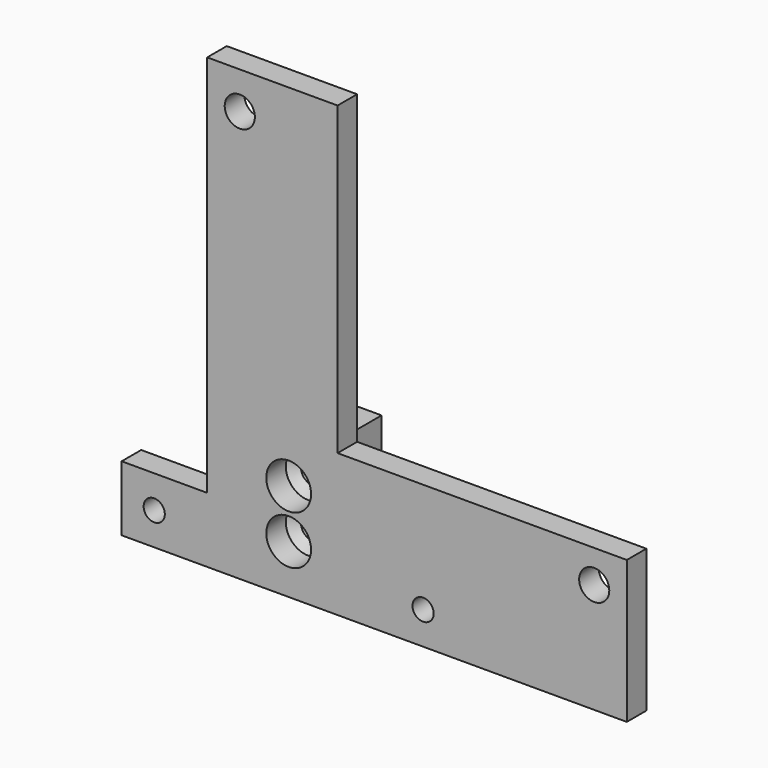
from build123d import *

# Parameters (mm, degrees)
F0_R     = 1.3
F0_R_2   = 1.85
F0_W     = 10
F0_H     = 18
F0_R_3   = 1.5
F1_DEPTH = 3
F2_DEPTH = 8
F3_D     = 5.5
F3_DEPTH = 3
F3_TIP   = 1.6523667023


with BuildPart() as f1:
    # F0 (on Front) → F1 (new body)
    with BuildSketch(Plane.XZ):
        Polygon((0, 3), (-10.5, 3), (-10.5, -5), (5, -5), (5, 13), (15, 13), (15, -5), (51.5, -5), (51.5, 12.5), (16, 12.5), (16, 50.0543485135), (0, 50.0543485135), align=None)
        with Locations((-6.5, -1)):
            Circle(F0_R, mode=Mode.SUBTRACT)
        with Locations((26.5, -1)):
            Circle(F0_R, mode=Mode.SUBTRACT)
        with Locations((47.5, 8.5)):
            Circle(F0_R_2, mode=Mode.SUBTRACT)
        with Locations((4, 45.5)):
            Circle(F0_R_2, mode=Mode.SUBTRACT)
        with Locations((10, 4)):
            Rectangle(F0_W, F0_H)
        with Locations((10, 1)):
            Circle(F0_R_3, mode=Mode.SUBTRACT)
        with Locations((10, 7)):
            Circle(F0_R_3, mode=Mode.SUBTRACT)
    extrude(amount=-F1_DEPTH)

    # F0 (on Front) → F2 (join)
    with BuildSketch(Plane.XZ):
        with Locations((10, 4)):
            Rectangle(F0_W, F0_H)
        with Locations((10, 1)):
            Circle(F0_R_3, mode=Mode.SUBTRACT)
        with Locations((10, 7)):
            Circle(F0_R_3, mode=Mode.SUBTRACT)
    extrude(amount=-F2_DEPTH)

    # F3
    with Locations(Plane.XZ):
        with Locations((10, 7), (10, 1)):
            Hole(F3_D / 2, depth=F3_DEPTH)
            with Locations((0, 0, -(F3_DEPTH + F3_TIP / 2))):  # 118° drill point
                Cone(0, F3_D / 2, F3_TIP, mode=Mode.SUBTRACT)


solid = f1.part
